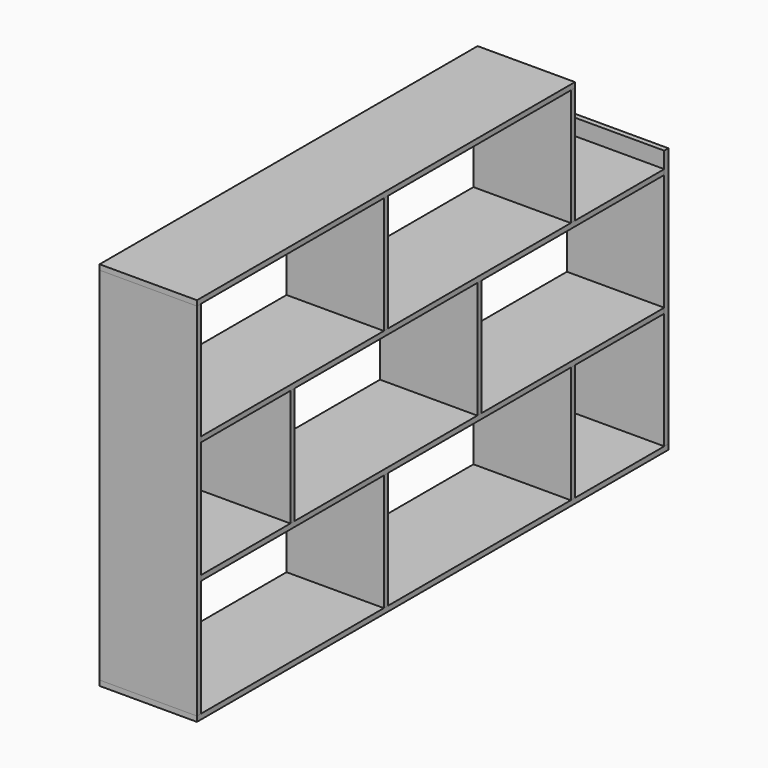
from build123d import *

# Parameters (mm, degrees)
F2_W     = 1816
F2_H     = 16
F2_W_2   = 1784
F2_W_3   = 1456
F3_DEPTH = 300
F1_W     = 16
F1_H     = 802
F1_H_2   = 1112
F1_H_3   = 360
F4_DEPTH = 300
F5_W     = 150
F5_H     = 50
F6_DEPTH = 16


with BuildPart() as f3:
    # F2 (on Right) → F3 (new body)
    with BuildSketch(Plane.YZ):
        with Locations((908, 8)):
            Rectangle(F2_W, F2_H)
        with Locations((908, 384)):
            Rectangle(F2_W_2, F2_H)
        with Locations((908, 760)):
            Rectangle(F2_W_2, F2_H)
        with Locations((728, 1136)):
            Rectangle(F2_W_3, F2_H)
    extrude(amount=F3_DEPTH)


with BuildPart() as f4:
    # F1 (on Right) → F4 (new body)
    with BuildSketch(Plane.YZ):
        with Locations((1808, 417)):
            Rectangle(F1_W, F1_H)
        with Locations((8, 572)):
            Rectangle(F1_W, F1_H_2)
        with Locations((1448, 948)):
            Rectangle(F1_W, F1_H_3)
        with Locations((1088, 572)):
            Rectangle(F1_W, F1_H_3)
        with Locations((1448, 196)):
            Rectangle(F1_W, F1_H_3)
        with Locations((728, 196)):
            Rectangle(F1_W, F1_H_3)
        with Locations((368, 572)):
            Rectangle(F1_W, F1_H_3)
        with Locations((728, 948)):
            Rectangle(F1_W, F1_H_3)
    extrude(amount=F4_DEPTH)


with BuildPart() as f6:
    # F5 (on Top) → F6 (new body)
    with BuildSketch(Plane.XY):
        Polygon((25, 1791), (25, 25), (75, 25), (75, 75), (75, 1741), (75, 1791), align=None)
        with Locations((150, 50)):
            Rectangle(F5_W, F5_H)
        Polygon((225, 75), (225, 25), (275, 25), (275, 1791), (225, 1791), (225, 1741), align=None)
        with Locations((150, 1766)):
            Rectangle(F5_W, F5_H)
    extrude(amount=-F6_DEPTH)


solid = Compound([f3.part, f4.part, f6.part])
